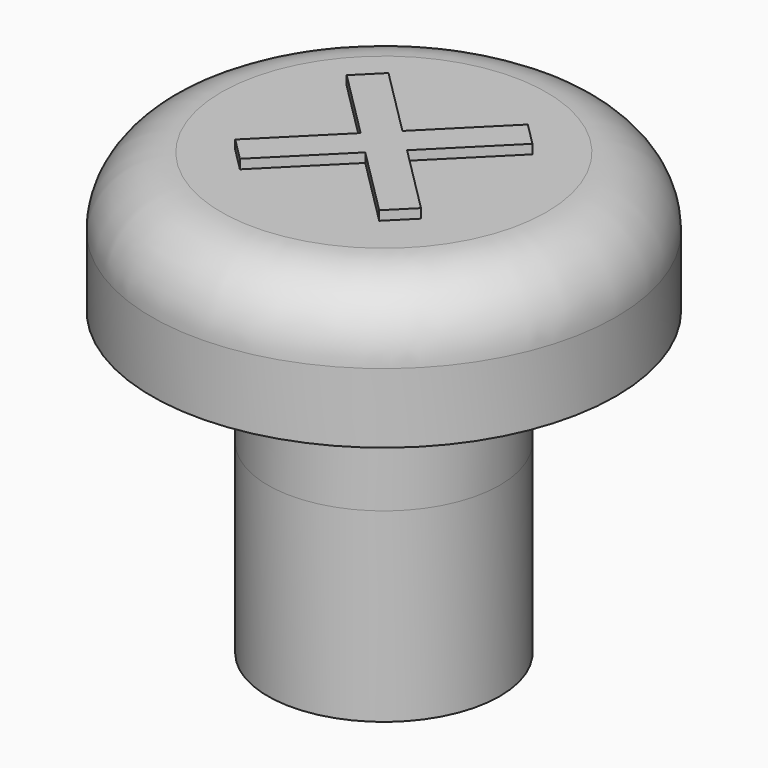
from build123d import *

# Parameters (mm, degrees)
SKETCH046_R     = 2.5
PAD023_DEPTH    = 2.5
SKETCH047_R     = 5
PAD024_DEPTH    = 3
FILLET003_R     = 1.5
SKETCH049_R     = 2.5
PAD025_DEPTH    = 4
SKETCH050_R     = 1.5
POCKET026_DEPTH = 4
PAD059_DEPTH    = 0.2


with BuildPart() as part:
    # Sketch046 → Pad023 (new body)
    with BuildSketch(Plane(origin=(0, 0, 30), x_dir=(1, 0, 0), z_dir=(0, 0, -1))):
        with Locations((101, 55)):
            Circle(SKETCH046_R)
    extrude(amount=-PAD023_DEPTH)

    # Sketch047 (on Face3 of Pad023) → Pad024 (join)
    with BuildSketch(Plane.XY.offset(32.5)):
        with Locations((101, -55)):
            Circle(SKETCH047_R)
    extrude(amount=PAD024_DEPTH)

    # Fillet003
    fillet003_edges = [part.edges().sort_by_distance(p)[0] for p in [
        (96, -55, 35.5),
    ]]
    fillet(fillet003_edges, radius=FILLET003_R)

    # Sketch049 → Pad025 (join)
    with BuildSketch(Plane(origin=(0, 0, 30), x_dir=(1, 0, 0), z_dir=(0, 0, -1))):
        with Locations((101, 55)):
            Circle(SKETCH049_R)
    extrude(amount=PAD025_DEPTH)

    # Sketch050 (on Face17 of Pad025) → Pocket026 (cut)
    with BuildSketch(Plane(origin=(0, 0, 26), x_dir=(1, 0, 0), z_dir=(0, 0, -1))):
        with Locations((101, 55)):
            Circle(SKETCH050_R)
    extrude(amount=-POCKET026_DEPTH, mode=Mode.SUBTRACT)


with BuildPart() as part_1:
    # Body002 placement: moved
    add(part.part.moved(Location((75, 0, 0))))

    # Sketch093 (on Face4 of Clone007) → Pad059 (new body)
    with BuildSketch(Plane(origin=(75, 0, 35.5), x_dir=(1, 0, 0), z_dir=(0, 0, 1))):
        Polygon((99.5, -53), (99, -53.5), (100.5, -55), (99, -56.5), (99.5, -57), (101, -55.5), (102.5, -57), (103, -56.5), (101.5, -55), (103, -53.5), (102.5, -53), (101, -54.5), align=None)
    extrude(amount=PAD059_DEPTH)


with BuildPart() as part_2:
    # Body016 placement: moved
    add(part_1.part.moved(Location((-52.5, 22, 0))))


solid = part_2.part
